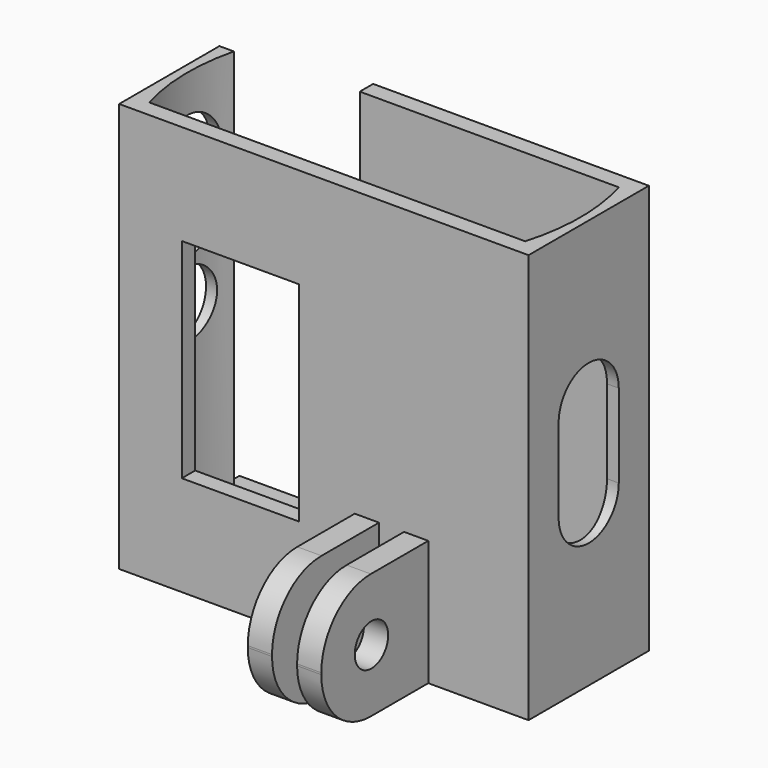
from build123d import *

# Parameters (mm, degrees)
SKETCH_W        = 49
SKETCH_H        = 49
PAD_DEPTH       = 18
POCKET_DEPTH    = 47
SKETCH002_W     = 14
SKETCH002_H     = 25
POCKET001_DEPTH = 5
SKETCH003_W     = 16
SKETCH003_H     = 46.5
POCKET002_DEPTH = 3
SKETCH004_W     = 2.9
SKETCH004_H     = 15
PAD001_DEPTH    = 16
SKETCH005_R     = 2.5
POCKET003_DEPTH = 20.801
POCKET004_DEPTH = 5
POCKET005_DEPTH = 5
FILLET_R        = 7.4
SKETCH008_R     = 4
POCKET006_DEPTH = 5


with BuildPart() as part:
    # Sketch → Pad (new body)
    with BuildSketch(Plane.XZ):
        with Locations((24.5, 24.5)):
            Rectangle(SKETCH_W, SKETCH_H)
    extrude(amount=PAD_DEPTH)

    # Sketch001 (on Face1 of Pad) → Pocket (cut)
    with BuildSketch(Plane(origin=(0, 0, 49), x_dir=(-1, 0, 0), z_dir=(0, 0, 1))):
        with BuildLine():
            Line((-47, 16), (-2, 16))
            ThreePointArc((-2, 2), (-1, 9), (-2, 16))
            Line((-2, 2), (-47, 2))
            ThreePointArc((-47, 16), (-48, 9), (-47, 2))
        make_face()
    extrude(amount=-POCKET_DEPTH, mode=Mode.SUBTRACT)

    # Sketch002 (on Face4 of Pocket) → Pocket001 (cut)
    with BuildSketch(Plane.XZ.offset(18)):
        with Locations((14.5, 24.5)):
            Rectangle(SKETCH002_W, SKETCH002_H)
    extrude(amount=-POCKET001_DEPTH, mode=Mode.SUBTRACT)

    # Sketch003 (on Face3 of Pocket001) → Pocket002 (cut)
    with BuildSketch(Plane(origin=(0, 0, 0), x_dir=(1, 0, 0), z_dir=(0, 1, 0))):
        with Locations((8, -25.75)):
            Rectangle(SKETCH003_W, SKETCH003_H)
    extrude(amount=-POCKET002_DEPTH, mode=Mode.SUBTRACT)

    # Sketch004 (on Face10 of Pocket002) → Pad001 (join)
    with BuildSketch(Plane.XZ.offset(18)):
        with Locations((29.65, 7.5)):
            Rectangle(SKETCH004_W, SKETCH004_H)
        with Locations((35.55, 7.5)):
            Rectangle(SKETCH004_W, SKETCH004_H)
    extrude(amount=PAD001_DEPTH)

    # Sketch005 (on Face19 of Pad001) → Pocket003 (cut, through all)
    with BuildSketch(Plane(origin=(28.2, 0, 0), x_dir=(0, 0, -1), z_dir=(-1, 0, 0))):
        with Locations((-7.5, 26.5)):
            Circle(SKETCH005_R)
    extrude(amount=-POCKET003_DEPTH, mode=Mode.SUBTRACT)

    # Sketch006 (on Face9 of Pocket003) → Pocket004 (cut)
    with BuildSketch(Plane(origin=(49, 0, 0), x_dir=(0, 0, 1), z_dir=(1, 0, 0))):
        with BuildLine():
            ThreePointArc((19.5, 13.5), (15, 9), (19.5, 4.5))
            Line((19.5, 4.5), (29.5, 4.5))
            ThreePointArc((29.5, 4.5), (34, 9), (29.5, 13.5))
            Line((29.5, 13.5), (19.5, 13.5))
        make_face()
    extrude(amount=-POCKET004_DEPTH, mode=Mode.SUBTRACT)

    # Sketch007 (on Face11 of Pocket004) → Pocket005 (cut)
    with BuildSketch(Plane(origin=(0, 0, 0), x_dir=(0, 0, -1), z_dir=(-1, 0, 0))):
        with BuildLine():
            ThreePointArc((-40, 13.5), (-44.5, 9), (-40, 4.5))
            Line((-40, 4.5), (-34, 4.5))
            ThreePointArc((-34, 4.5), (-29.5, 9), (-34, 13.5))
            Line((-34, 13.5), (-40, 13.5))
        make_face()
    extrude(amount=-POCKET005_DEPTH, mode=Mode.SUBTRACT)

    # Fillet
    fillet_edges = [part.edges().sort_by_distance(p)[0] for p in [
        (29.65, -34, 15),
        (35.55, -34, 15),
        (35.55, -34, 0),
        (29.65, -34, 0),
    ]]
    fillet(fillet_edges, radius=FILLET_R)

    # Sketch008 (on Face11 of Fillet) → Pocket006 (cut)
    with BuildSketch(Plane(origin=(0, 0, 0), x_dir=(0, 0, -1), z_dir=(-1, 0, 0))):
        with Locations((-24.5, 9)):
            Circle(SKETCH008_R)
    extrude(amount=-POCKET006_DEPTH, mode=Mode.SUBTRACT)


solid = part.part
